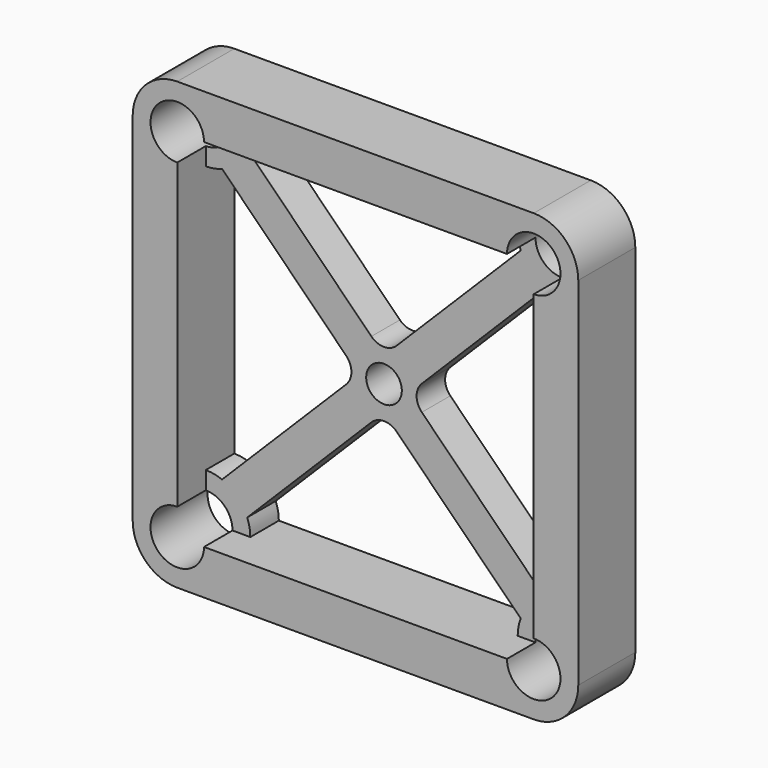
from build123d import *

# Parameters (mm, degrees)
F0_R     = 2.38125
F0_R_2   = 1.5875
F1_DEPTH = 3.175
F2_R     = 1.5875
F3_DEPTH = 3.175


with BuildPart() as f1:
    # F0 (on Front) → F1 (new body, symmetric)
    with BuildSketch(Plane.XZ):
        with BuildLine():
            Line((15.875, 19.84375), (-15.875, 19.84375))
            ThreePointArc((-15.875, 19.84375), (-18.68133, 18.68133), (-19.84375, 15.875))
            Line((-19.84375, 15.875), (-19.84375, -15.875))
            ThreePointArc((-19.84375, -15.875), (-18.68133, -18.68133), (-15.875, -19.84375))
            Line((-15.875, -19.84375), (15.875, -19.84375))
            ThreePointArc((15.875, -19.84375), (18.68133, -18.68133), (19.84375, -15.875))
            Line((19.84375, -15.875), (19.84375, 15.875))
            ThreePointArc((19.84375, 15.875), (18.68133, 18.68133), (15.875, 19.84375))
        make_face()
        with Locations((-15.875, -15.875)):
            Circle(F0_R, mode=Mode.SUBTRACT)
        with Locations((15.875, -15.875)):
            Circle(F0_R, mode=Mode.SUBTRACT)
        with BuildLine():
            ThreePointArc((12.180424, -14.425488), (11.975396, -15.137393), (11.90625, -15.875))
            Line((11.90625, -15.875), (-11.90625, -15.875))
            ThreePointArc((-11.90625, -15.875), (-11.975396, -15.137393), (-12.180424, -14.425488))
            Line((-12.180424, -14.425488), (-1.122532, -3.367596))
            ThreePointArc((-1.122532, -3.367596), (0, -2.902628), (1.122532, -3.367596))
            Line((1.122532, -3.367596), (12.180424, -14.425488))
        make_face(mode=Mode.SUBTRACT)
        with BuildLine():
            ThreePointArc((-14.425488, -12.180424), (-15.137393, -11.975396), (-15.875, -11.90625))
            Line((-15.875, -11.90625), (-15.875, 11.90625))
            ThreePointArc((-15.875, 11.90625), (-15.137393, 11.975396), (-14.425488, 12.180424))
            Line((-14.425488, 12.180424), (-3.367596, 1.122532))
            ThreePointArc((-3.367596, 1.122532), (-2.902628, 0), (-3.367596, -1.122532))
            Line((-3.367596, -1.122532), (-14.425488, -12.180424))
        make_face(mode=Mode.SUBTRACT)
        with Locations((-15.875, 15.875)):
            Circle(F0_R, mode=Mode.SUBTRACT)
        Circle(F0_R_2, mode=Mode.SUBTRACT)
        with BuildLine():
            ThreePointArc((14.425488, 12.180424), (15.137393, 11.975396), (15.875, 11.90625))
            Line((15.875, 11.90625), (15.875, -11.90625))
            ThreePointArc((15.875, -11.90625), (15.137393, -11.975396), (14.425488, -12.180424))
            Line((14.425488, -12.180424), (3.367596, -1.122532))
            ThreePointArc((3.367596, -1.122532), (2.902628, 0), (3.367596, 1.122532))
            Line((3.367596, 1.122532), (14.425488, 12.180424))
        make_face(mode=Mode.SUBTRACT)
        with BuildLine():
            ThreePointArc((-12.180424, 14.425488), (-11.975396, 15.137393), (-11.90625, 15.875))
            Line((-11.90625, 15.875), (11.90625, 15.875))
            ThreePointArc((11.90625, 15.875), (11.975396, 15.137393), (12.180424, 14.425488))
            Line((12.180424, 14.425488), (1.122532, 3.367596))
            ThreePointArc((1.122532, 3.367596), (0, 2.902628), (-1.122532, 3.367596))
            Line((-1.122532, 3.367596), (-12.180424, 14.425488))
        make_face(mode=Mode.SUBTRACT)
        with Locations((15.875, 15.875)):
            Circle(F0_R, mode=Mode.SUBTRACT)
    extrude(amount=F1_DEPTH, both=True)

    # F2 (on face) → F3 (cut)
    with BuildSketch(Plane.XZ.offset(3.175)):
        with BuildLine():
            Line((-11.90625, 15.875), (-13.49375, 15.875))
            ThreePointArc((-13.49375, 15.875), (-14.191202, 14.191202), (-15.875, 13.49375))
            Line((-15.875, 13.49375), (-15.875, 11.90625))
            ThreePointArc((-15.875, 11.90625), (-15.137393, 11.975396), (-14.425488, 12.180424))
            Line((-14.425488, 12.180424), (-3.367596, 1.122532))
            ThreePointArc((-3.367596, 1.122532), (-2.902628, 0), (-3.367596, -1.122532))
            Line((-3.367596, -1.122532), (-14.425488, -12.180424))
            ThreePointArc((-14.425488, -12.180424), (-15.137393, -11.975396), (-15.875, -11.90625))
            Line((-15.875, -11.90625), (-15.875, -13.49375))
            ThreePointArc((-15.875, -13.49375), (-14.191202, -14.191202), (-13.49375, -15.875))
            Line((-13.49375, -15.875), (-11.90625, -15.875))
            ThreePointArc((-11.90625, -15.875), (-11.975396, -15.137393), (-12.180424, -14.425488))
            Line((-12.180424, -14.425488), (-1.122532, -3.367596))
            ThreePointArc((-1.122532, -3.367596), (0, -2.902628), (1.122532, -3.367596))
            Line((1.122532, -3.367596), (12.180424, -14.425488))
            ThreePointArc((12.180424, -14.425488), (11.975396, -15.137393), (11.90625, -15.875))
            Line((11.90625, -15.875), (13.49375, -15.875))
            ThreePointArc((13.49375, -15.875), (14.191202, -14.191202), (15.875, -13.49375))
            Line((15.875, -13.49375), (15.875, -11.90625))
            ThreePointArc((15.875, -11.90625), (15.137393, -11.975396), (14.425488, -12.180424))
            Line((14.425488, -12.180424), (3.367596, -1.122532))
            ThreePointArc((3.367596, -1.122532), (2.902628, 0), (3.367596, 1.122532))
            Line((3.367596, 1.122532), (14.425488, 12.180424))
            ThreePointArc((14.425488, 12.180424), (15.137393, 11.975396), (15.875, 11.90625))
            Line((15.875, 11.90625), (15.875, 13.49375))
            ThreePointArc((15.875, 13.49375), (14.191202, 14.191202), (13.49375, 15.875))
            Line((13.49375, 15.875), (11.90625, 15.875))
            ThreePointArc((11.90625, 15.875), (11.975396, 15.137393), (12.180424, 14.425488))
            Line((12.180424, 14.425488), (1.122532, 3.367596))
            ThreePointArc((1.122532, 3.367596), (0, 2.902628), (-1.122532, 3.367596))
            Line((-1.122532, 3.367596), (-12.180424, 14.425488))
            ThreePointArc((-12.180424, 14.425488), (-11.975396, 15.137393), (-11.90625, 15.875))
        make_face()
        Circle(F2_R, mode=Mode.SUBTRACT)
        with BuildLine():
            Line((-13.49375, 15.875), (-15.875, 15.875))
            Line((-15.875, 15.875), (-15.875, 13.49375))
            ThreePointArc((-15.875, 13.49375), (-14.191202, 14.191202), (-13.49375, 15.875))
        make_face()
        with BuildLine():
            ThreePointArc((-14.425488, 12.180424), (-15.137393, 11.975396), (-15.875, 11.90625))
            Line((-15.875, 11.90625), (-15.875, -11.90625))
            ThreePointArc((-15.875, -11.90625), (-15.137393, -11.975396), (-14.425488, -12.180424))
            Line((-14.425488, -12.180424), (-3.367596, -1.122532))
            ThreePointArc((-3.367596, -1.122532), (-2.902628, 0), (-3.367596, 1.122532))
            Line((-3.367596, 1.122532), (-14.425488, 12.180424))
        make_face()
        with BuildLine():
            Line((11.90625, 15.875), (-11.90625, 15.875))
            ThreePointArc((-11.90625, 15.875), (-11.975396, 15.137393), (-12.180424, 14.425488))
            Line((-12.180424, 14.425488), (-1.122532, 3.367596))
            ThreePointArc((-1.122532, 3.367596), (0, 2.902628), (1.122532, 3.367596))
            Line((1.122532, 3.367596), (12.180424, 14.425488))
            ThreePointArc((12.180424, 14.425488), (11.975396, 15.137393), (11.90625, 15.875))
        make_face()
        with BuildLine():
            Line((15.875, 15.875), (13.49375, 15.875))
            ThreePointArc((13.49375, 15.875), (14.191202, 14.191202), (15.875, 13.49375))
            Line((15.875, 13.49375), (15.875, 15.875))
        make_face()
        with BuildLine():
            Line((15.875, -11.90625), (15.875, 11.90625))
            ThreePointArc((15.875, 11.90625), (15.137393, 11.975396), (14.425488, 12.180424))
            Line((14.425488, 12.180424), (3.367596, 1.122532))
            ThreePointArc((3.367596, 1.122532), (2.902628, 0), (3.367596, -1.122532))
            Line((3.367596, -1.122532), (14.425488, -12.180424))
            ThreePointArc((14.425488, -12.180424), (15.137393, -11.975396), (15.875, -11.90625))
        make_face()
        with BuildLine():
            ThreePointArc((-12.180424, -14.425488), (-11.975396, -15.137393), (-11.90625, -15.875))
            Line((-11.90625, -15.875), (11.90625, -15.875))
            ThreePointArc((11.90625, -15.875), (11.975396, -15.137393), (12.180424, -14.425488))
            Line((12.180424, -14.425488), (1.122532, -3.367596))
            ThreePointArc((1.122532, -3.367596), (0, -2.902628), (-1.122532, -3.367596))
            Line((-1.122532, -3.367596), (-12.180424, -14.425488))
        make_face()
        with BuildLine():
            Line((15.875, -15.875), (15.875, -13.49375))
            ThreePointArc((15.875, -13.49375), (14.191202, -14.191202), (13.49375, -15.875))
            Line((13.49375, -15.875), (15.875, -15.875))
        make_face()
        with BuildLine():
            ThreePointArc((-13.49375, -15.875), (-14.191202, -14.191202), (-15.875, -13.49375))
            Line((-15.875, -13.49375), (-15.875, -15.875))
            Line((-15.875, -15.875), (-13.49375, -15.875))
        make_face()
        Circle(F2_R)
    extrude(amount=-F3_DEPTH, mode=Mode.SUBTRACT)


solid = f1.part
